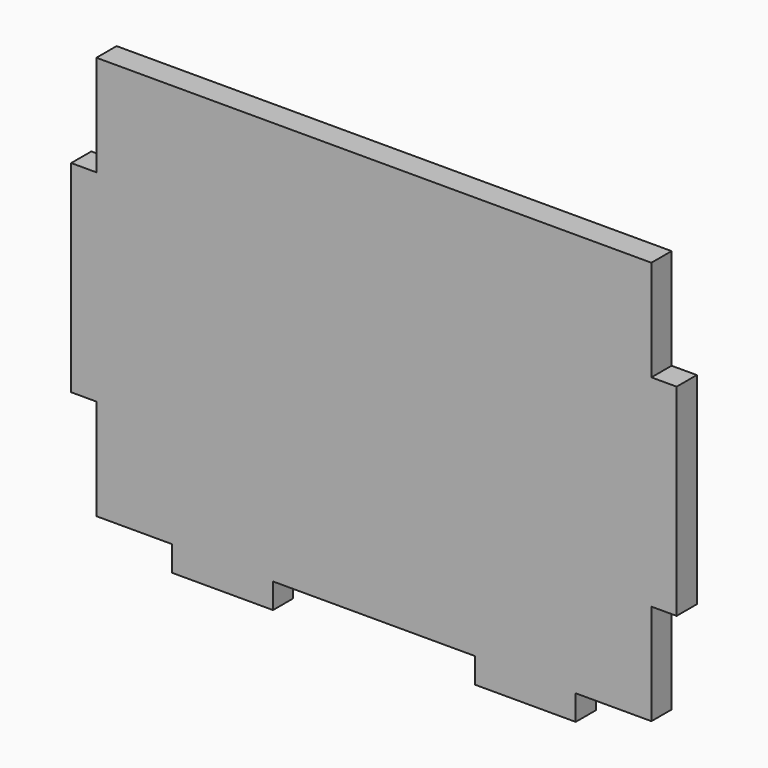
from build123d import *

# Parameters (mm, degrees)
F0_W     = 152.4
F0_H     = 101.6
F1_DEPTH = 6.35
F2_W     = 25.4
F2_H     = 6.35
F3_DEPTH = 6.35
F4_W     = 6.35
F4_H     = 25.4
F5_DEPTH = 25.4


with BuildPart() as f1:
    # F0 (on Front) → F1 (new body)
    with BuildSketch(Plane.XZ):
        with Locations((0, 50.8)):
            Rectangle(F0_W, F0_H)
    extrude(amount=F1_DEPTH)

    # F2 (on face) → F3 (join)
    with BuildSketch(Plane.XZ.offset(6.35)):
        with Locations((38.1, -3.175)):
            Rectangle(F2_W, F2_H)
        with Locations((-38.1, -3.175)):
            Rectangle(F2_W, F2_H)
    extrude(amount=-F3_DEPTH)

    # F4 (on face) → F5 (cut)
    with BuildSketch(Plane.XZ.offset(6.35)):
        with Locations((73.025, 88.9)):
            Rectangle(F4_W, F4_H)
        with Locations((73.025, 12.7)):
            Rectangle(F4_W, F4_H)
        with Locations((-73.025, 12.7)):
            Rectangle(F4_W, F4_H)
        with Locations((-73.025, 88.9)):
            Rectangle(F4_W, F4_H)
    extrude(amount=-F5_DEPTH, mode=Mode.SUBTRACT)


solid = f1.part
